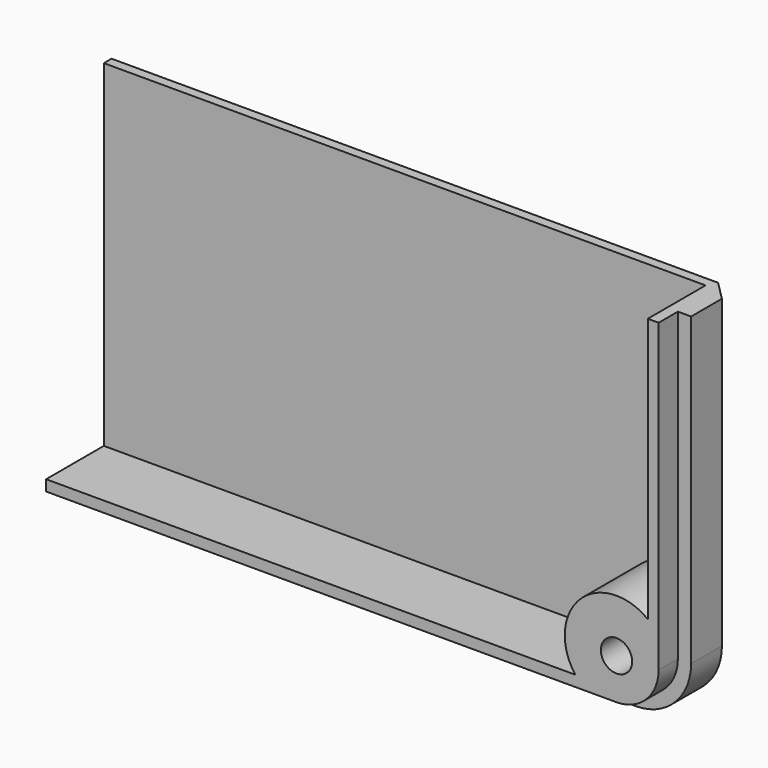
from build123d import *

# Parameters (mm, degrees)
SKETCH005_R      = 1.3
EXTRUDE003_DEPTH = 20
EXTRUDE039_DEPTH = 4
EXTRUDE042_DEPTH = 0.8
EXTRUDE002_DEPTH = 6
EXTRUDE037_DEPTH = 2


with BuildPart() as sweep001:
    # Sweep001: sweep along a path in Sketch034
    with BuildLine(Plane.XZ.offset(10)) as sweep001_path:
        Line((32, 12), (32, 48.4))
        ThreePointArc((32, 48.4), (30.652691, 51.652691), (27.4, 53))
        Line((27.4, 53), (-20, 53))
    # Sketch035 → Sweep001 (sweep)
    with BuildSketch(Plane.YZ):
        Polygon((5.3, 51.4), (3.7, 53), (3.7, 54), (6, 54), (6, 51.4), align=None)
    sweep(path=sweep001_path.line)


with BuildPart() as fusion030:
    # Sketch005 → Extrude003 (new body)
    with BuildSketch(Plane.XZ.offset(5)):
        with Locations((27.4, 48.5)):
            Circle(SKETCH005_R)
    extrude(amount=-EXTRUDE003_DEPTH)


with BuildPart() as fusion030_1:
    # Extrude003 placement: moved
    add(fusion030.part.moved(Location((0, -4, 0))))

    # Fusion030: union Sweep001
    add(sweep001.part)


with BuildPart() as top003:
    # Sketch028 → Extrude039 (new body)
    with BuildSketch(Plane.XZ.offset(10)):
        with BuildLine():
            ThreePointArc((32, 48.4), (30.652691, 51.652691), (27.4, 53))
            Line((27.4, 53), (-20, 53))
            Line((-20, 53), (-20, 51))
            Line((-20, 51), (27.4, 51))
            ThreePointArc((30, 48.4), (29.238478, 50.238478), (27.4, 51))
            Line((30, 23), (30, 48.4))
            Line((32, 23), (30, 23))
            Line((32, 48.4), (32, 23))
        make_face()
    extrude(amount=EXTRUDE039_DEPTH)


with BuildPart() as top003_1:
    # Extrude039 placement: moved
    add(top003.part.moved(Location((0, 14.5, 0))))


with BuildPart() as top002:
    # Sketch031 → Extrude042 (new body)
    with BuildSketch(Plane.XZ.offset(10)):
        with BuildLine():
            ThreePointArc((32, 48.4), (30.652691, 51.652691), (27.4, 53))
            Line((27.4, 53), (-20, 53))
            Line((-20, 53), (-20, 23))
            Line((-20, 23), (32, 23))
            Line((32, 48.4), (32, 23))
        make_face()
    extrude(amount=EXTRUDE042_DEPTH)


with BuildPart() as top002_1:
    # Extrude042 placement: moved
    add(top002.part.moved(Location((0, 15.3, 0))))


with BuildPart() as screw_hole_top:
    # Sketch004 → Extrude002 (new body)
    with BuildSketch(Plane.XZ.offset(10)):
        with BuildLine():
            ThreePointArc((23.975091, 51), (24.359441, 45.359441), (30, 44.975091))
            Line((30, 44.975091), (30, 48.4))
            ThreePointArc((30, 48.4), (29.238478, 50.238478), (27.4, 51))
            Line((23.975091, 51), (27.4, 51))
        make_face()
    extrude(amount=-EXTRUDE002_DEPTH)


with BuildPart() as screw_hole_top_1:
    # Extrude002 placement: moved
    add(screw_hole_top.part.moved(Location((0, 8.5, 0))))


with BuildPart() as top:
    # Sketch029 → Extrude037 (new body)
    with BuildSketch(Plane.XZ.offset(10)):
        with BuildLine():
            ThreePointArc((30.9, 48.4), (29.874874, 50.874874), (27.4, 51.9))
            Line((27.4, 51.9), (-20, 51.9))
            Line((-20, 51.9), (-20, 51))
            Line((-20, 51), (27.4, 51))
            ThreePointArc((30, 48.4), (29.238478, 50.238478), (27.4, 51))
            Line((30, 23), (30, 48.4))
            Line((30.9, 23), (30, 23))
            Line((30.9, 48.4), (30.9, 23))
        make_face()
    extrude(amount=EXTRUDE037_DEPTH)


with BuildPart() as top_1:
    # Extrude037 placement: moved
    add(top.part.moved(Location((0, 10.5, 0))))

    # Fusion028: union top003, top002, screw hole top
    add(top003_1.part)
    add(top002_1.part)
    add(screw_hole_top_1.part)

    # Cut024: cut Fusion030
    add(fusion030_1.part, mode=Mode.SUBTRACT)


with BuildPart() as part_mirroring001:
    # Part__Mirroring001: instance of top
    add(top_1.part.mirror(Plane(origin=(0, 0, 0), x_dir=(0, 1, 0), z_dir=(0, 0, 1))))


solid = part_mirroring001.part
